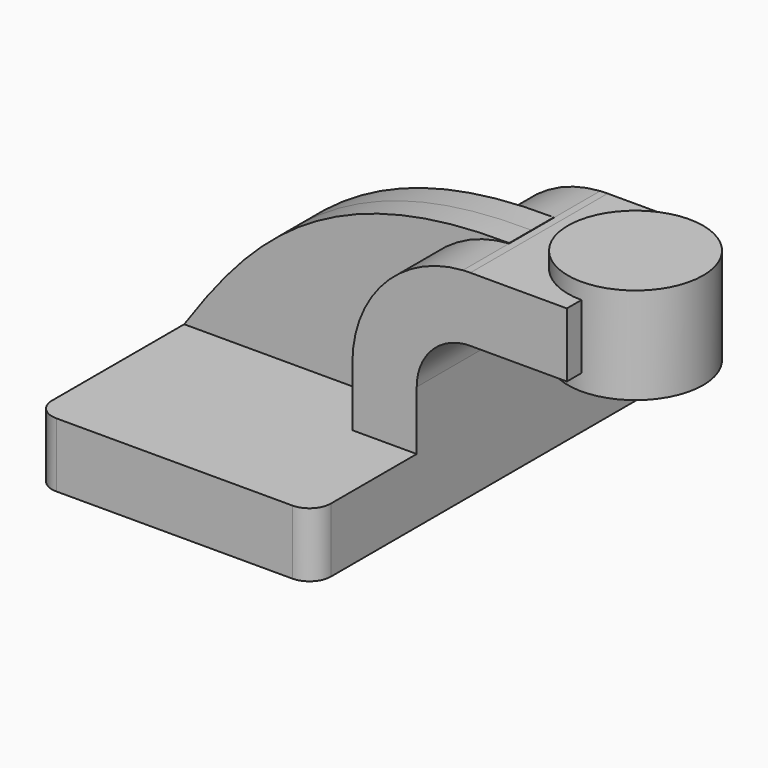
from build123d import *

# Parameters (mm, degrees)
F1_DEPTH = 63.5
F2_DEPTH = 25.4
F3_DEPTH = 8.255
F5_R     = 6.35


with BuildPart() as f1:
    # F0 (on Front) → F1 (new body, symmetric)
    with BuildSketch(Plane.XZ):
        Polygon((41.275, -9.525), (41.275, 9.525), (22.225, 9.525), (-41.275, 9.525), (-41.275, -9.525), align=None)
    extrude(amount=F1_DEPTH, both=True)

    # F0 (on Front) → F2 (join, symmetric)
    with BuildSketch(Plane.XZ):
        with BuildLine():
            Line((22.225, 9.525), (41.275, 9.525))
            Line((41.275, 9.525), (41.275, 27.0002))
            ThreePointArc((41.275, 27.0002), (45.166907, 37.412746), (54.934352, 42.719822))
            Line((54.934352, 42.719822), (54.934352, 61.854849))
            ThreePointArc((54.934352, 61.854849), (31.682991, 50.89972), (22.225, 27.0002))
            Line((22.225, 27.0002), (22.225, 9.525))
        make_face()
        with BuildLine():
            Line((54.934352, 61.854849), (54.934352, 42.719822))
            ThreePointArc((54.934352, 42.719822), (56.039455, 42.836308), (57.15, 42.8752))
            Line((57.15, 42.8752), (85.725, 42.8752))
            Line((85.725, 42.8752), (85.725, 61.9252))
            Line((85.725, 61.9252), (57.15, 61.9252))
            ThreePointArc((57.15, 61.9252), (56.041618, 61.907608), (54.934352, 61.854849))
        make_face()
    extrude(amount=F2_DEPTH, both=True)

    # F0 (on Front) → F3 (join, symmetric)
    with BuildSketch(Plane.XZ):
        with BuildLine():
            Line((-41.275, 9.525), (22.225, 9.525))
            Line((22.225, 9.525), (22.225, 27.0002))
            ThreePointArc((22.225, 27.0002), (31.682991, 50.89972), (54.934352, 61.854849))
            Line((54.934352, 61.854849), (54.934352, 61.970605))
            add(Edge.make_bspline(
                [(-41.275, 9.525), (-22.851193, 36.281686), (-0.588278, 62.756125), (54.934352, 61.970605)],
                knots=[0, 0, 0, 0, 110.052173, 110.052173, 110.052173, 110.052173], degree=3))
        make_face()
    extrude(amount=F3_DEPTH, both=True)

    # F0 (on Front) → F4 (revolve)
    with BuildSketch(Plane.XZ):
        Polygon((85.725, 42.8752), (85.725, 38.1), (105.734352, 38.1), (105.734352, 66.675), (85.725, 66.675), (85.725, 61.9252), align=None)
    revolve(axis=Axis((85.725, 0, 52.3875), (0, 0, 1)))

    # F5
    f5_edges = [f1.edges().sort_by_distance(p)[0] for p in [
        (41.275, -63.5, 0),
        (-41.275, -63.5, 0),
        (-41.275, 63.5, 0),
        (41.275, 63.5, 0),
    ]]
    fillet(f5_edges, radius=F5_R)


solid = f1.part
